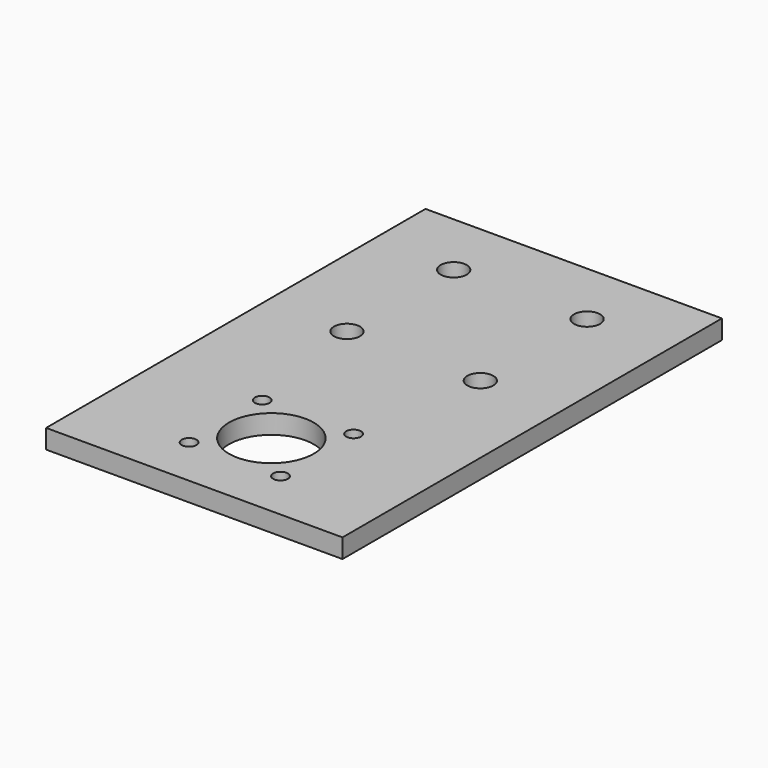
from build123d import *

# Parameters (mm, degrees)
F0_W     = 100
F0_H     = 160
F1_DEPTH = 6.45
F3_D     = 8.8
F5_D     = 4.9784
F7_D     = 28.575


with BuildPart() as f1:
    # F0 (on Top) → F1 (new body)
    with BuildSketch(Plane.XY):
        Rectangle(F0_W, F0_H)
    extrude(amount=F1_DEPTH)

    # F3 (through all)
    with Locations(Plane.XY.offset(6.45)):
        with Locations((-22.5, 57.5), (22.5, 57.5), (22.5, 12.5), (-22.5, 12.5)):
            Hole(F3_D / 2)

    # F5 (through all)
    with Locations(Plane.XY.offset(6.45)):
        with Locations((-15.4149278299, -32.0850721701), (15.4149278299, -32.0850721701), (15.4149278299, -62.9149278299), (-15.4149278299, -62.9149278299)):
            Hole(F5_D / 2)

    # F7 (through all)
    with Locations(Plane.XY.offset(6.45)):
        with Locations((0, -47.5)):
            Hole(F7_D / 2)


solid = f1.part
